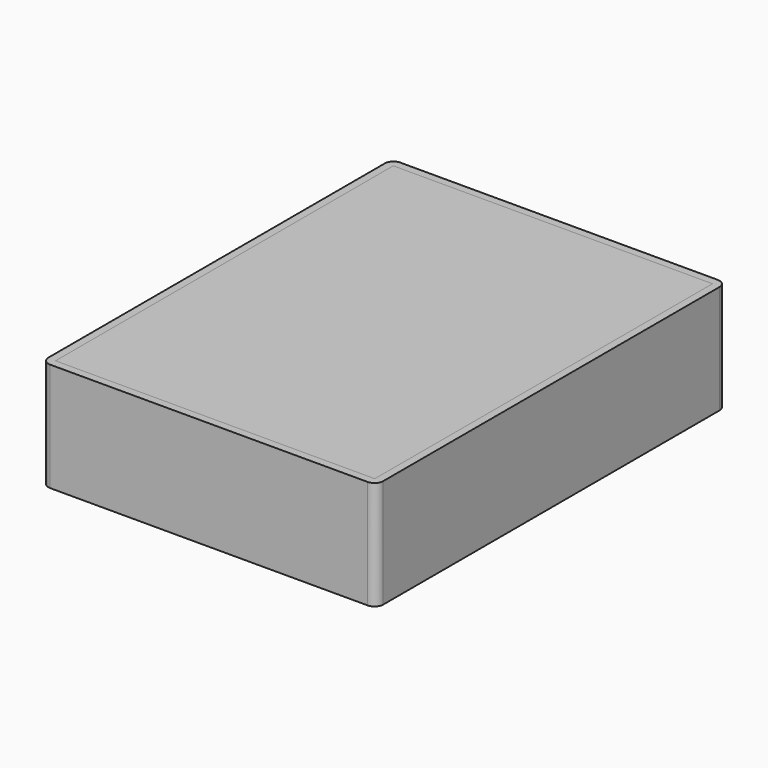
from build123d import *

# Parameters (mm, degrees)
F0_W      = 58.5
F0_H      = 76.5
F0_W_2    = 54
F0_H_2    = 72
F0_R      = 3.5
F1_DEPTH  = 1
F2_DEPTH  = 19
F3_DEPTH  = 8
F4_R      = 1.5
F5_DEPTH  = 5
F6_W      = 55.8
F6_H      = 73.8
F7_DEPTH  = 2
F8_W      = 50
F8_H      = 6.5
F9_DEPTH  = 3
F10_R     = 1.5
F11_W     = 55.8
F11_H     = 73.8
F12_DEPTH = 2


with BuildPart() as f1:
    # F0 (on Top) → F1 (new body)
    with BuildSketch(Plane.XY):
        Rectangle(F0_W, F0_H)
        Rectangle(F0_W_2, F0_H_2, mode=Mode.SUBTRACT)
        Rectangle(F0_W_2, F0_H_2)
        with Locations((-22, -12)):
            Circle(F0_R, mode=Mode.SUBTRACT)
        with Locations((22, -12)):
            Circle(F0_R, mode=Mode.SUBTRACT)
        with Locations((-22, 32)):
            Circle(F0_R, mode=Mode.SUBTRACT)
        with Locations((22, 32)):
            Circle(F0_R, mode=Mode.SUBTRACT)
        with Locations((-22, 32)):
            Circle(F0_R)
        with Locations((22, 32)):
            Circle(F0_R)
        with Locations((22, -12)):
            Circle(F0_R)
        with Locations((-22, -12)):
            Circle(F0_R)
    extrude(amount=F1_DEPTH)

    # F0 (on Top) → F2 (join)
    with BuildSketch(Plane.XY):
        Rectangle(F0_W, F0_H)
        Rectangle(F0_W_2, F0_H_2, mode=Mode.SUBTRACT)
    extrude(amount=F2_DEPTH)

    # F0 (on Top) → F3 (join)
    with BuildSketch(Plane.XY):
        with Locations((-22, -12)):
            Circle(F0_R)
        with Locations((22, -12)):
            Circle(F0_R)
        with Locations((-22, 32)):
            Circle(F0_R)
        with Locations((22, 32)):
            Circle(F0_R)
    extrude(amount=F3_DEPTH)

    # F4 (on face) → F5 (cut)
    with BuildSketch(Plane.XY.offset(8)):
        with Locations((22, -12)):
            Circle(F4_R)
        with Locations((22, 32)):
            Circle(F4_R)
        with Locations((-22, -12)):
            Circle(F4_R)
        with Locations((-22, 32)):
            Circle(F4_R)
    extrude(amount=-F5_DEPTH, mode=Mode.SUBTRACT)

    # F6 (on face) → F7 (cut)
    with BuildSketch(Plane.XY.offset(19)):
        Rectangle(F6_W, F6_H)
    extrude(amount=-F7_DEPTH, mode=Mode.SUBTRACT)

    # F8 (on face) → F9 (cut)
    with BuildSketch(Plane(origin=(0, 38.25, 0), x_dir=(-1, 0, 0), z_dir=(0, 1, 0))):
        with Locations((0, 13.75)):
            Rectangle(F8_W, F8_H)
    extrude(amount=-F9_DEPTH, mode=Mode.SUBTRACT)

    # F10
    f10_edges = [f1.edges().sort_by_distance(p)[0] for p in [
        (29.25, -38.25, 9.5),
        (-29.25, -38.25, 9.5),
        (-29.25, 38.25, 9.5),
        (29.25, 38.25, 9.5),
    ]]
    fillet(f10_edges, radius=F10_R)


with BuildPart() as f12:
    # F11 (on face) → F12 (new body)
    with BuildSketch(Plane.XY.offset(17)):
        Rectangle(F11_W, F11_H)
    extrude(amount=F12_DEPTH)


solid = Compound([f1.part, f12.part])
